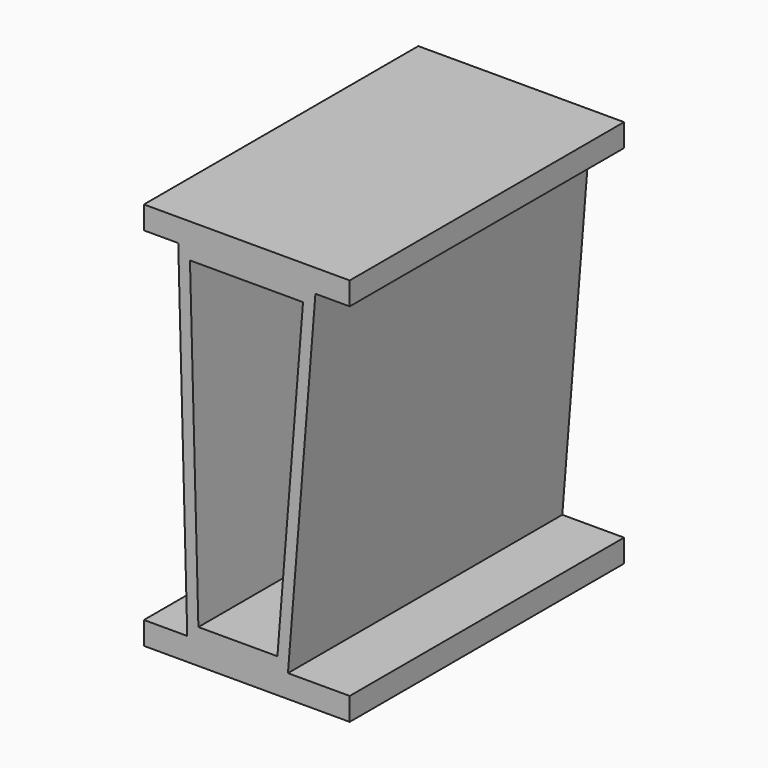
from build123d import *

# Parameters (mm, degrees)
F1_DEPTH = 762
F3_DEPTH = 762.001


with BuildPart() as f1:
    # F0 (on Front) → F1 (new body)
    with BuildSketch(Plane.XZ):
        Polygon((228.6, 0), (-228.6, 0), (-228.6, -50.8), (-152.4, -50.8), (152.4, -50.8), (228.6, -50.8), align=None)
        Polygon((152.4, -50.8), (-152.4, -50.8), (-132.376907, -812.8), (91.359573, -812.8), align=None)
        Polygon((91.359573, -812.8), (-132.376907, -812.8), (-228.6, -812.8), (-228.6, -863.6), (228.6, -863.6), (228.6, -812.8), align=None)
    extrude(amount=F1_DEPTH)

    # F2 (on face) → F3 (cut, through all)
    with BuildSketch(Plane.XZ.offset(762)):
        Polygon((124.883955, -76.2), (-126.323796, -76.2), (-107.635576, -787.4), (67.912889, -787.4), align=None)
    extrude(amount=-F3_DEPTH, mode=Mode.SUBTRACT)


solid = f1.part
